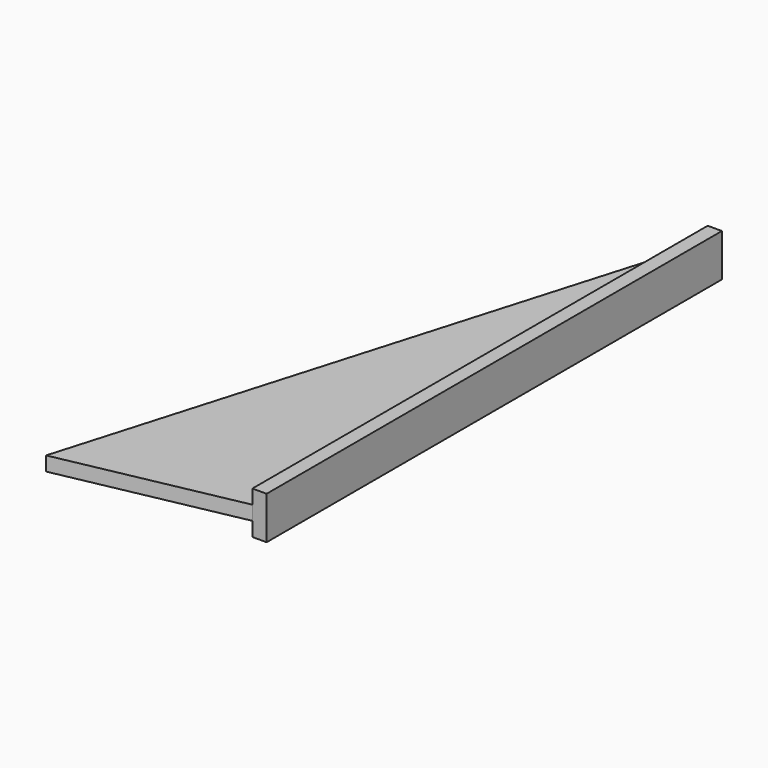
from build123d import *

# Parameters (mm, degrees)
F1_DEPTH  = 2
F1_FACE_W = 80
F1_FACE_H = 2
F2_DEPTH  = 2
F3_W      = 2
F3_H      = 80
F4_DEPTH  = 2
F5_DEPTH  = 4


with BuildPart() as f1:
    # F0 (on Top) → F1 (new body)
    with BuildSketch(Plane.XY):
        Polygon((-25, -5), (0, 0), (0, 80), align=None)
    extrude(amount=F1_DEPTH)

    # F1_face (on face) → F2 (join)
    with BuildSketch(Plane(origin=(0, 40, 1), x_dir=(0, 1, 0), z_dir=(1, 0, 0))):
        Rectangle(F1_FACE_W, F1_FACE_H)
    extrude(amount=F2_DEPTH)

    # F3 (on face) → F4 (join)
    with BuildSketch(Plane.XY.offset(2)):
        with Locations((1, 40)):
            Rectangle(F3_W, F3_H)
    extrude(amount=F4_DEPTH)

    # F3 (on face) → F5 (join)
    with BuildSketch(Plane.XY.offset(2)):
        with Locations((1, 40)):
            Rectangle(F3_W, F3_H)
    extrude(amount=-F5_DEPTH)


solid = f1.part
